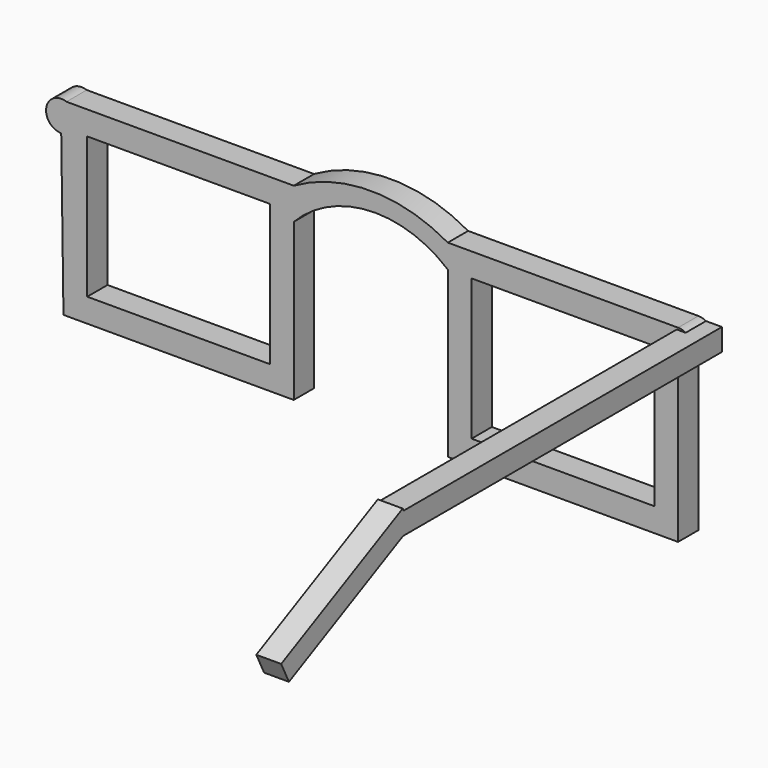
from build123d import *

# Parameters (mm, degrees)
F0_W     = 36
F0_H     = 27.8
F1_DEPTH = 5
F4_DEPTH = 4.89948


with BuildPart() as f1:
    # F0 (on Front) → F1 (new body)
    with BuildSketch(Plane.XZ):
        with BuildLine():
            Line((-30.347455, 32.653721), (-75.134323, 32.653721))
            ThreePointArc((-75.134323, 32.653721), (-79.098659, 30.369488), (-76.158331, 26.864042))
            Line((-76.158331, 26.864042), (-75.715502, -4.506279))
            Line((-75.715502, -4.506279), (-30.347455, -4.506279))
            Line((-30.347455, -4.506279), (-30.347455, 26.393375))
            ThreePointArc((-30.347455, 26.393375), (-15.484933, 33.159648), (0, 27.973721))
            Line((0, 27.973721), (0, 32.653721))
            ThreePointArc((0, 32.653721), (-15.173727, 36.710455), (-30.347455, 32.653721))
        make_face()
        with Locations((-53.031478, 14.073721)):
            Rectangle(F0_W, F0_H, mode=Mode.SUBTRACT)
        with BuildLine():
            Line((45.36, 32.653721), (0, 32.653721))
            Line((0, 32.653721), (0, 27.973721))
            Line((0, 27.973721), (0, -4.506279))
            Line((0, -4.506279), (45.36, -4.506279))
            Line((45.36, -4.506279), (45.36, 26.673721))
            ThreePointArc((45.36, 26.673721), (48.35, 29.663721), (45.36, 32.653721))
        make_face()
        with Locations((22.68, 14.073721)):
            Rectangle(F0_W, F0_H, mode=Mode.SUBTRACT)
    extrude(amount=F1_DEPTH)

    # F3 (on offset) → F4 (join)
    with BuildSketch(Plane.YZ.offset(50)):
        Polygon((0, 27.918266), (0, 32.254044), (-78.380987, 32.254044), (-78.61077, 32.71914), (-108.536719, 17.934066), (-106.616209, 14.046829), (-78.53952, 27.918266), align=None)
    extrude(amount=-F4_DEPTH)


solid = f1.part
